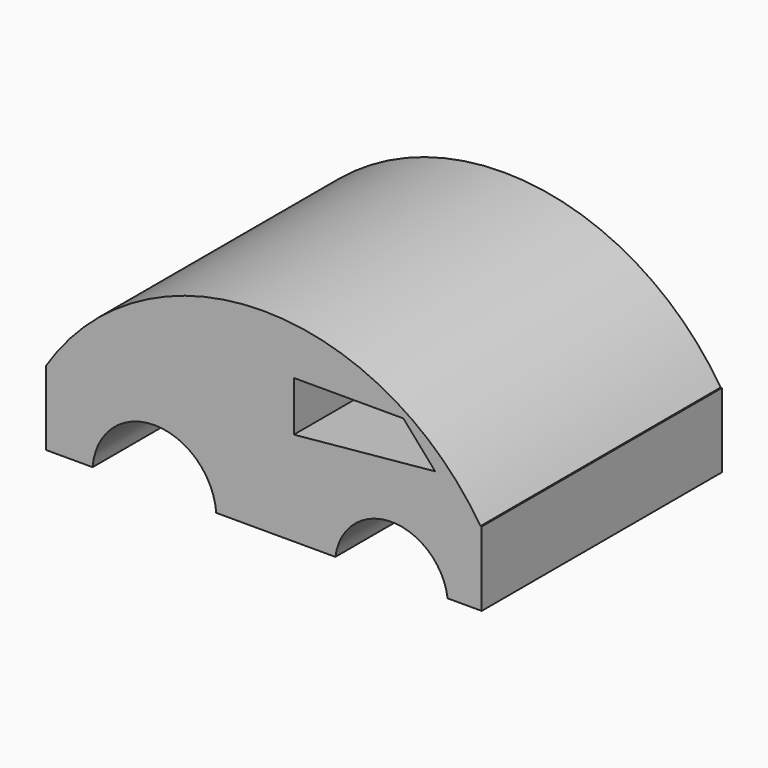
from build123d import *

# Parameters (mm, degrees)
F1_DEPTH = 76.2


with BuildPart() as f1:
    # F0 (on Front) → F1 (new body)
    with BuildSketch(Plane.XZ):
        with BuildLine():
            Line((47.666792, 0), (47.344048, 0))
            ThreePointArc((47.344048, 0), (-7.770756, 30.175149), (-62.88556, 0))
            Line((-62.88556, 0), (-62.88556, -18.851276))
            Line((-62.88556, -18.851276), (-51.082842, -18.851276))
            ThreePointArc((-51.082842, -18.851276), (-35.392302, -4.33196), (-19.701762, -18.851276))
            Line((-19.701762, -18.851276), (10.527718, -18.851276))
            ThreePointArc((10.527718, -18.851276), (24.778759, -6.39794), (39.029799, -18.851276))
            Line((39.029799, -18.851276), (47.666792, -18.851276))
            Line((47.666792, -18.851276), (47.666792, 0))
        make_face()
        Polygon((0, 17.700054), (18.013114, 17.700054), (27.801706, 17.700054), (35.862904, 8.49027), (0, 5.036601), align=None, mode=Mode.SUBTRACT)
    extrude(amount=F1_DEPTH)


solid = f1.part
